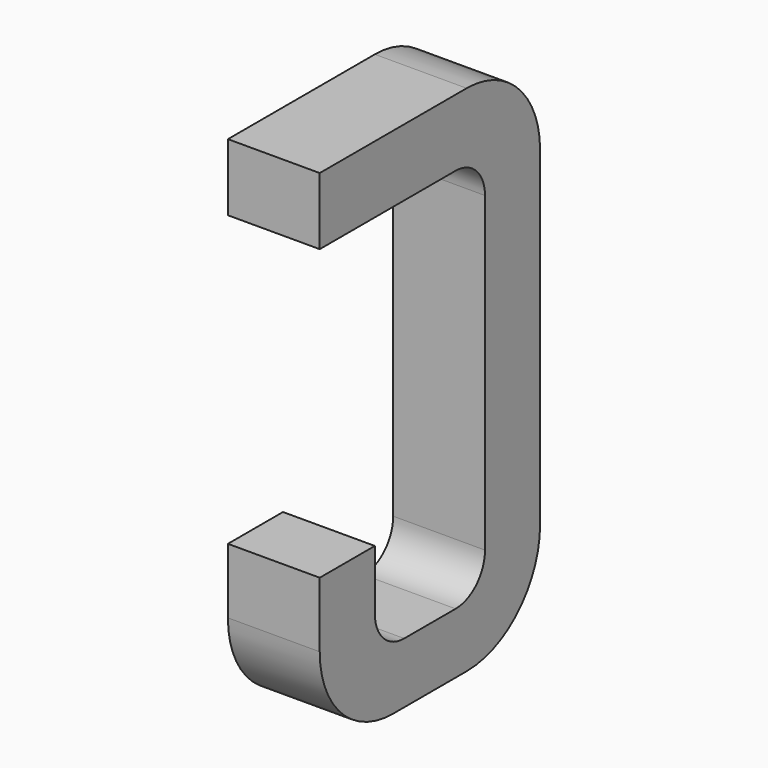
from build123d import *

# Parameters (mm, degrees)
BOX115_W     = 0.5
BOX115_H     = 1.5
BOX115_DEPTH = 2.795
FILLET246_R  = 0.5
FILLET263_R  = 0.5
FILLET256_R  = 0.5
BOX125_W     = 0.75
BOX125_H     = 2.1
BOX125_DEPTH = 1
FILLET247_R  = 0.2
FILLET266_R  = 0.2
FILLET253_R  = 0.2
FILLET245_R  = 0.2
BOX120_W     = 1
BOX120_H     = 1.575
BOX120_DEPTH = 3


with BuildPart() as part:
    # Box115 → Box115 (join)
    with BuildSketch(Plane(origin=(-0.25, 11.125, 0), x_dir=(1, 0, 0), z_dir=(0, 0, 1))):
        with Locations((0.25, 0.75)):
            Rectangle(BOX115_W, BOX115_H)
    extrude(amount=BOX115_DEPTH)

    # Fillet246
    fillet246_edges = [part.edges().sort_by_distance(p)[0] for p in [
        (0, 12.625, 0),
    ]]
    fillet(fillet246_edges, radius=FILLET246_R)

    # Fillet263
    fillet263_edges = [part.edges().sort_by_distance(p)[0] for p in [
        (0, 12.625, 2.795),
    ]]
    fillet(fillet263_edges, radius=FILLET263_R)

    # Fillet256
    fillet256_edges = [part.edges().sort_by_distance(p)[0] for p in [
        (0, 11.125, 0),
    ]]
    fillet(fillet256_edges, radius=FILLET256_R)

    # Box125 → Box125 (cut)
    with BuildSketch(Plane(origin=(-0.5, 11.5, 0.33), x_dir=(0, 1, 0), z_dir=(1, 0, 0))):
        with Locations((0.375, 1.05)):
            Rectangle(BOX125_W, BOX125_H)
    extrude(amount=BOX125_DEPTH, mode=Mode.SUBTRACT)

    # Fillet247
    fillet247_edges = [part.edges().sort_by_distance(p)[0] for p in [
        (0, 11.5, 0.33),
    ]]
    fillet(fillet247_edges, radius=FILLET247_R)

    # Fillet266
    fillet266_edges = [part.edges().sort_by_distance(p)[0] for p in [
        (0, 12.25, 0.33),
    ]]
    fillet(fillet266_edges, radius=FILLET266_R)

    # Fillet253
    fillet253_edges = [part.edges().sort_by_distance(p)[0] for p in [
        (0, 11.5, 2.43),
    ]]
    fillet(fillet253_edges, radius=FILLET253_R)

    # Fillet245
    fillet245_edges = [part.edges().sort_by_distance(p)[0] for p in [
        (0, 12.25, 2.43),
    ]]
    fillet(fillet245_edges, radius=FILLET245_R)

    # Box120 → Box120 (cut)
    with BuildSketch(Plane(origin=(-1, 11, 0.855), x_dir=(0, 1, 0), z_dir=(1, 0, 0))):
        with Locations((0.5, 0.7875)):
            Rectangle(BOX120_W, BOX120_H)
    extrude(amount=BOX120_DEPTH, mode=Mode.SUBTRACT)


with BuildPart() as part_1:
    # Body036 placement: moved
    add(part.part.moved(Location((-1.27, 0, 0))))


solid = part_1.part
